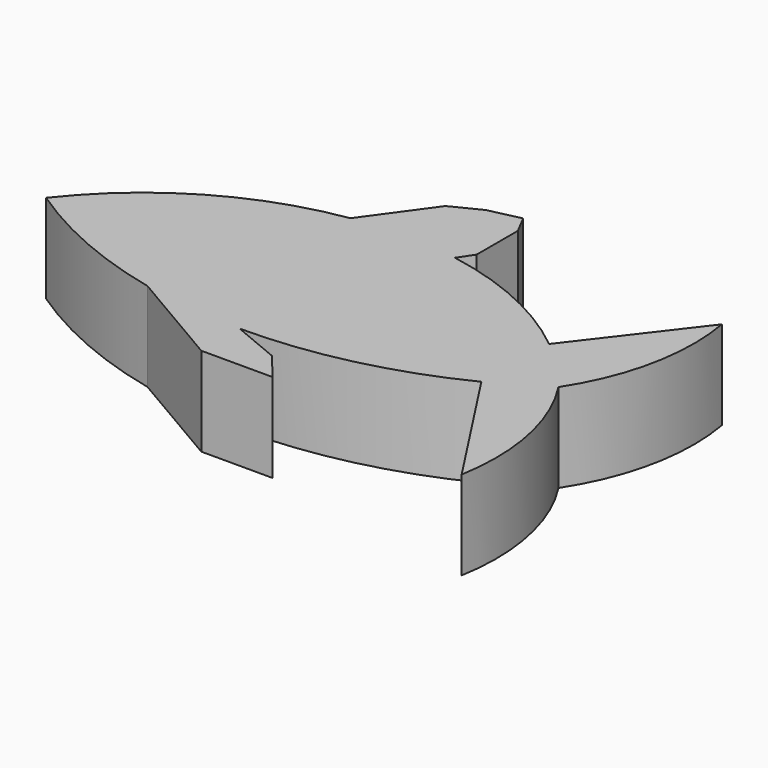
from build123d import *

# Parameters (mm, degrees)
F1_DEPTH = 6.35


with BuildPart() as f1:
    # F0 (on Top) → F1 (new body)
    with BuildSketch(Plane.XY):
        with BuildLine():
            ThreePointArc((32.855215, -2.186947), (34.771164, -1.15596), (36.614407, 0))
            ThreePointArc((36.614407, 0), (34.889405, 1.97478), (32.952585, 3.742297))
            ThreePointArc((32.952585, 3.742297), (27.957955, 6.846629), (22.343243, 8.595399))
            ThreePointArc((22.343243, 8.595399), (21.214623, 8.766265), (20.078966, 8.881412))
            ThreePointArc((20.078966, 8.881412), (19.296547, 8.928061), (18.512999, 8.948252))
            ThreePointArc((18.512999, 8.948252), (17.529857, 8.936138), (16.548111, 8.882379))
            ThreePointArc((16.548111, 8.882379), (15.671721, 8.798986), (14.799125, 8.682403))
            ThreePointArc((14.799125, 8.682403), (6.567414, 5.759596), (0, 0))
            ThreePointArc((0, 0), (5.316286, -2.909032), (11.077638, -4.788443))
            ThreePointArc((11.077638, -4.788443), (13.483798, -5.23936), (15.916923, -5.509234))
            ThreePointArc((15.916923, -5.509234), (16.677906, -5.556038), (17.439771, -5.58511))
            ThreePointArc((17.439771, -5.58511), (17.873449, -5.593729), (18.307204, -5.596602))
            ThreePointArc((18.307204, -5.596602), (25.778321, -4.732794), (32.855215, -2.186947))
        make_face()
        with BuildLine():
            ThreePointArc((38.997543, -11.624333), (38.91177, -5.585464), (36.614407, 0))
            ThreePointArc((36.614407, 0), (34.771164, -1.15596), (32.855215, -2.186947))
            Line((32.855215, -2.186947), (38.997543, -11.624333))
        make_face()
        with BuildLine():
            ThreePointArc((32.952585, 3.742297), (34.889405, 1.97478), (36.614407, 0))
            ThreePointArc((36.614407, 0), (38.91177, 5.585464), (38.997543, 11.624333))
            Line((38.997543, 11.624333), (32.952585, 3.742297))
        make_face()
        with BuildLine():
            ThreePointArc((20.078966, 8.881412), (21.214623, 8.766265), (22.343243, 8.595399))
            Line((22.343243, 8.595399), (23.048276, 9.652127))
            Line((23.048276, 9.652127), (23.048276, 13.331916))
            Line((23.048276, 13.331916), (20.078966, 8.881412))
        make_face()
        with BuildLine():
            Line((21.761282, -7.030831), (18.307204, -5.596602))
            ThreePointArc((18.307204, -5.596602), (17.873449, -5.593729), (17.439771, -5.58511))
            Line((17.439771, -5.58511), (23.403441, -9.019224))
            Line((23.403441, -9.019224), (21.761282, -7.030831))
        make_face()
        with BuildLine():
            ThreePointArc((18.512999, 8.948252), (19.296547, 8.928061), (20.078966, 8.881412))
            Line((20.078966, 8.881412), (23.048276, 13.331916))
            Line((23.048276, 13.331916), (22.343243, 14.689153))
            Line((22.343243, 14.689153), (18.512999, 8.948252))
        make_face()
        with BuildLine():
            Line((23.403441, -9.019224), (17.439771, -5.58511))
            ThreePointArc((17.439771, -5.58511), (16.677906, -5.556038), (15.916923, -5.509234))
            Line((15.916923, -5.509234), (21.785915, -9.019224))
            Line((21.785915, -9.019224), (23.403441, -9.019224))
        make_face()
        with BuildLine():
            ThreePointArc((16.548111, 8.882379), (17.529857, 8.936138), (18.512999, 8.948252))
            Line((18.512999, 8.948252), (22.343243, 14.689153))
            Line((22.343243, 14.689153), (20.078966, 14.174544))
            Line((20.078966, 14.174544), (16.548111, 8.882379))
        make_face()
        with BuildLine():
            Line((21.785915, -9.019224), (15.916923, -5.509234))
            ThreePointArc((15.916923, -5.509234), (13.483798, -5.23936), (11.077638, -4.788443))
            Line((11.077638, -4.788443), (18.307204, -9.019224))
            Line((18.307204, -9.019224), (21.785915, -9.019224))
        make_face()
        with BuildLine():
            ThreePointArc((14.799125, 8.682403), (15.671721, 8.798986), (16.548111, 8.882379))
            Line((16.548111, 8.882379), (20.078966, 14.174544))
            Line((20.078966, 14.174544), (18.02053, 13.145326))
            Line((18.02053, 13.145326), (14.799125, 8.682403))
        make_face()
    extrude(amount=F1_DEPTH)


solid = f1.part
